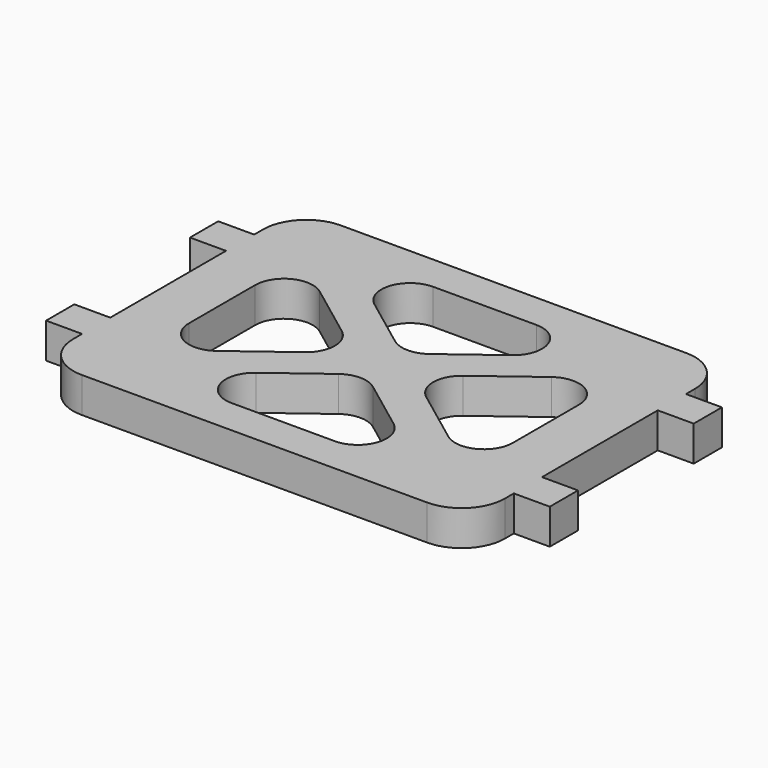
from build123d import *

# Parameters (mm, degrees)
F1_DEPTH = 6.223
F3_DEPTH = 25.4
F4_R     = 5.08
F5_R     = 7.62


with BuildPart() as f1:
    # F0 (on Top) → F1 (new body)
    with BuildSketch(Plane.XY):
        Polygon((-38.1, 0), (0, 0), (38.1, 0), (38.1, 9.5885), (44.45, 9.5885), (44.45, 12.7), (44.45, 15.8115), (38.1, 15.8115), (38.1, 41.3385), (44.45, 41.3385), (44.45, 44.45), (44.45, 47.5615), (38.1, 47.5615), (38.1, 57.15), (0, 57.15), (-38.1, 57.15), (-38.1, 47.5615), (-44.45, 47.5615), (-44.45, 44.45), (-44.45, 41.3385), (-38.1, 41.3385), (-38.1, 15.8115), (-44.45, 15.8115), (-44.45, 12.7), (-44.45, 9.5885), (-38.1, 9.5885), align=None)
    extrude(amount=F1_DEPTH)

    # F2 (on face) → F3 (cut)
    with BuildSketch(Plane.XY.offset(6.223)):
        Polygon((-28.575, 46.0375), (-28.575, 11.1125), (-5.291667, 28.575), align=None)
        Polygon((-24.341667, 50.8), (0, 32.54375), (24.341667, 50.8), align=None)
        Polygon((28.575, 46.0375), (5.291667, 28.575), (28.575, 11.1125), align=None)
        Polygon((24.341667, 6.35), (0, 24.60625), (-24.341667, 6.35), align=None)
    extrude(amount=-F3_DEPTH, mode=Mode.SUBTRACT)

    # F4
    f4_edges = [f1.edges().sort_by_distance(p)[0] for p in [
        (-28.575, 11.1125, 3.1115),
        (-28.575, 46.0375, 3.1115),
        (-5.291667, 28.575, 3.1115),
        (24.341667, 6.35, 3.1115),
        (0, 24.60625, 3.1115),
        (-24.341667, 6.35, 3.1115),
        (28.575, 11.1125, 3.1115),
        (28.575, 46.0375, 3.1115),
        (5.291667, 28.575, 3.1115),
        (0, 32.54375, 3.1115),
        (24.341667, 50.8, 3.1115),
        (-24.341667, 50.8, 3.1115),
    ]]
    fillet(f4_edges, radius=F4_R)

    # F5
    f5_edges = [f1.edges().sort_by_distance(p)[0] for p in [
        (-38.1, 57.15, 3.1115),
        (38.1, 57.15, 3.1115),
        (38.1, 0, 3.1115),
        (-38.1, 0, 3.1115),
    ]]
    fillet(f5_edges, radius=F5_R)


solid = f1.part
